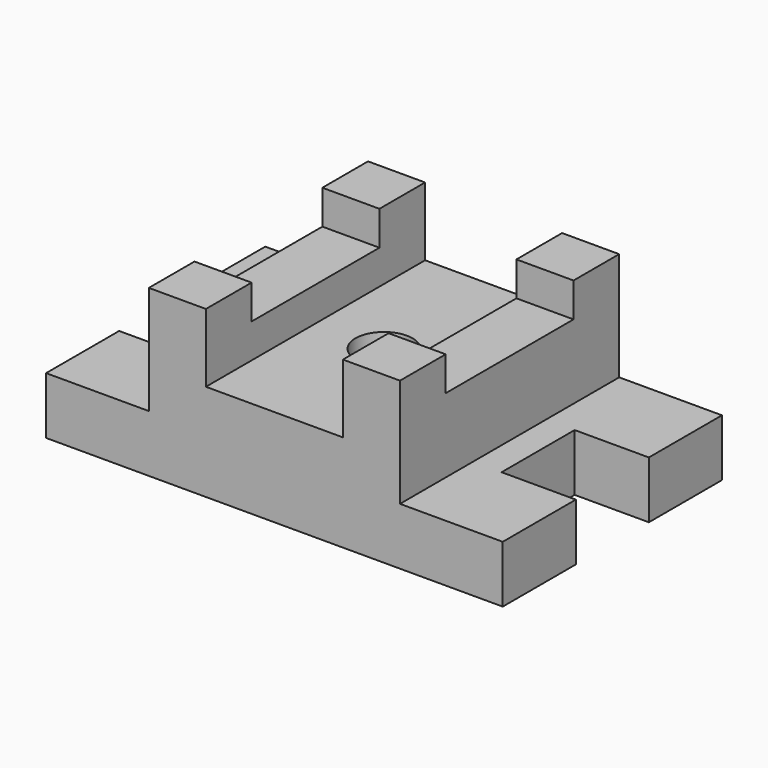
from build123d import *

# Parameters (mm, degrees)
F1_DEPTH = 31.75
F0_W     = 31.75
F0_H     = 31.75
F2_DEPTH = 92.075
F3_DEPTH = 53.975
F0_H_2   = 88.9
F4_DEPTH = 73.025


with BuildPart() as f1:
    # F0 (on Top) → F1 (new body)
    with BuildSketch(Plane.XY):
        Polygon((-69.85, 44.45), (-69.85, 76.2), (-127, 76.2), (-127, 25.4), (-85.725, 25.4), (-85.725, -25.4), (-127, -25.4), (-127, -76.2), (-69.85, -76.2), (-69.85, -44.45), align=None)
        Polygon((127, 76.2), (69.85, 76.2), (69.85, 44.45), (69.85, -44.45), (69.85, -76.2), (127, -76.2), (127, -25.4), (85.725, -25.4), (85.725, 25.4), (127, 25.4), align=None)
    extrude(amount=F1_DEPTH)

    # F0 (on Top) → F2 (join)
    with BuildSketch(Plane.XY):
        with Locations((-53.975, 60.325)):
            Rectangle(F0_W, F0_H)
        with Locations((-53.975, -60.325)):
            Rectangle(F0_W, F0_H)
        with Locations((53.975, -60.325)):
            Rectangle(F0_W, F0_H)
        with Locations((53.975, 60.325)):
            Rectangle(F0_W, F0_H)
    extrude(amount=F2_DEPTH)

    # F0 (on Top) → F3 (join)
    with BuildSketch(Plane.XY):
        Polygon((38.1, 76.2), (0, 76.2), (-38.1, 76.2), (-38.1, 44.45), (-38.1, -44.45), (-38.1, -76.2), (0, -76.2), (38.1, -76.2), (38.1, -44.45), (38.1, 44.45), align=None)
        with BuildLine():
            ThreePointArc((0, 15.875), (15.875, 0), (0, -15.875))
            ThreePointArc((0, -15.875), (-15.875, 0), (0, 15.875))
        make_face(mode=Mode.SUBTRACT)
    extrude(amount=F3_DEPTH)

    # F0 (on Top) → F4 (join)
    with BuildSketch(Plane.XY):
        with Locations((-53.975, 0)):
            Rectangle(F0_W, F0_H_2)
        with Locations((53.975, 0)):
            Rectangle(F0_W, F0_H_2)
    extrude(amount=F4_DEPTH)


solid = f1.part
